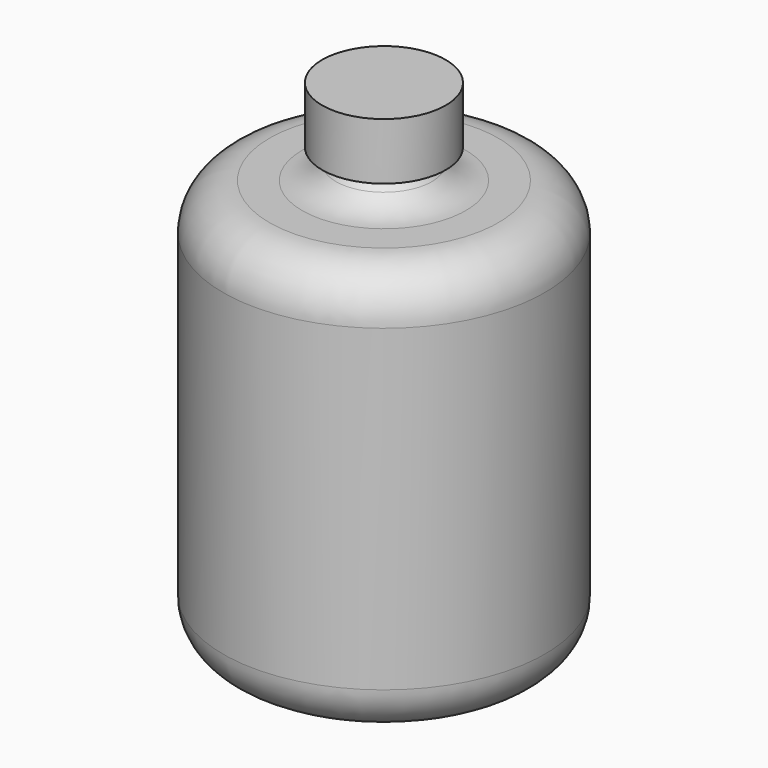
from build123d import *


with BuildPart() as f1:
    # F0 (on Front) → F1 (revolve)
    with BuildSketch(Plane.XZ):
        with BuildLine():
            Line((-15.652751, 0), (0, 0))
            Line((0, 0), (0, 68.008505))
            Line((0, 68.008505), (-8.445499, 68.008505))
            Line((-8.445499, 68.008505), (-8.445499, 60.229748))
            Line((-8.445499, 60.229748), (-4.66725, 60.229748))
            Line((-4.66725, 60.229748), (-6.566111, 58.219191))
            ThreePointArc((-6.566111, 58.219191), (-8.669069, 56.747919), (-11.182643, 56.229252))
            Line((-11.182643, 56.229252), (-15.652751, 56.229252))
            ThreePointArc((-15.652751, 56.229252), (-20.142879, 54.36938), (-22.002751, 49.879252))
            Line((-22.002751, 49.879252), (-22.002751, 6.35))
            ThreePointArc((-22.002751, 6.35), (-20.142879, 1.859872), (-15.652751, 0))
        make_face()
    revolve(axis=Axis((0, 0, 34.004252), (0, 0, -1)))


solid = f1.part
